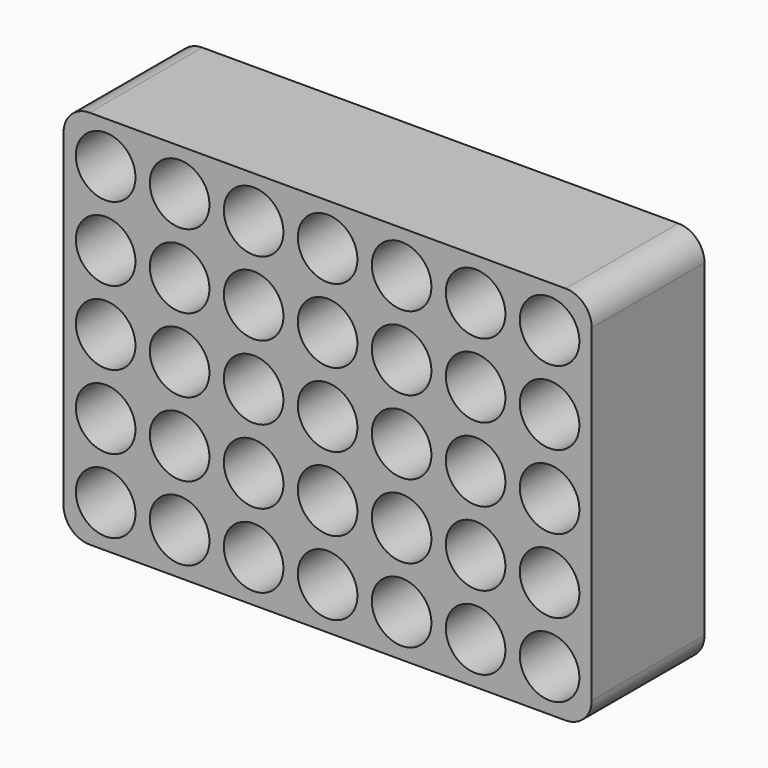
from build123d import *

# Parameters (mm, degrees)
F0_R     = 7.25
F1_DEPTH = 31.75
F3_DEPTH = 2.54


with BuildPart() as f1:
    # F0 (on Front) → F1 (new body)
    with BuildSketch(Plane.XZ):
        with BuildLine():
            Line((-57.9, -46.25), (57.9, -46.25))
            ThreePointArc((57.9, -46.25), (62.390128, -44.390128), (64.25, -39.9))
            Line((64.25, -39.9), (64.25, 39.9))
            ThreePointArc((64.25, 39.9), (62.390128, 44.390128), (57.9, 46.25))
            Line((57.9, 46.25), (-57.9, 46.25))
            ThreePointArc((-57.9, 46.25), (-62.390128, 44.390128), (-64.25, 39.9))
            Line((-64.25, 39.9), (-64.25, -39.9))
            ThreePointArc((-64.25, -39.9), (-62.390128, -44.390128), (-57.9, -46.25))
        make_face()
        with Locations((-54, -36)):
            Circle(F0_R, mode=Mode.SUBTRACT)
        with Locations((-36, -36)):
            Circle(F0_R, mode=Mode.SUBTRACT)
        with Locations((-18, -36)):
            Circle(F0_R, mode=Mode.SUBTRACT)
        with Locations((-54, -18)):
            Circle(F0_R, mode=Mode.SUBTRACT)
        with Locations((-36, -18)):
            Circle(F0_R, mode=Mode.SUBTRACT)
        with Locations((-18, -18)):
            Circle(F0_R, mode=Mode.SUBTRACT)
        with Locations((0, -36)):
            Circle(F0_R, mode=Mode.SUBTRACT)
        with Locations((18, -36)):
            Circle(F0_R, mode=Mode.SUBTRACT)
        with Locations((36, -36)):
            Circle(F0_R, mode=Mode.SUBTRACT)
        with Locations((54, -36)):
            Circle(F0_R, mode=Mode.SUBTRACT)
        with Locations((0, -18)):
            Circle(F0_R, mode=Mode.SUBTRACT)
        with Locations((18, -18)):
            Circle(F0_R, mode=Mode.SUBTRACT)
        with Locations((36, -18)):
            Circle(F0_R, mode=Mode.SUBTRACT)
        with Locations((54, -18)):
            Circle(F0_R, mode=Mode.SUBTRACT)
        with Locations((-54, 0)):
            Circle(F0_R, mode=Mode.SUBTRACT)
        with Locations((-36, 0)):
            Circle(F0_R, mode=Mode.SUBTRACT)
        with Locations((-54, 18)):
            Circle(F0_R, mode=Mode.SUBTRACT)
        with Locations((-36, 18)):
            Circle(F0_R, mode=Mode.SUBTRACT)
        with Locations((-18, 0)):
            Circle(F0_R, mode=Mode.SUBTRACT)
        with Locations((-18, 18)):
            Circle(F0_R, mode=Mode.SUBTRACT)
        with Locations((-54, 36)):
            Circle(F0_R, mode=Mode.SUBTRACT)
        with Locations((-36, 36)):
            Circle(F0_R, mode=Mode.SUBTRACT)
        with Locations((-18, 36)):
            Circle(F0_R, mode=Mode.SUBTRACT)
        Circle(F0_R, mode=Mode.SUBTRACT)
        with Locations((18, 0)):
            Circle(F0_R, mode=Mode.SUBTRACT)
        with Locations((0, 18)):
            Circle(F0_R, mode=Mode.SUBTRACT)
        with Locations((18, 18)):
            Circle(F0_R, mode=Mode.SUBTRACT)
        with Locations((36, 0)):
            Circle(F0_R, mode=Mode.SUBTRACT)
        with Locations((54, 0)):
            Circle(F0_R, mode=Mode.SUBTRACT)
        with Locations((36, 18)):
            Circle(F0_R, mode=Mode.SUBTRACT)
        with Locations((54, 18)):
            Circle(F0_R, mode=Mode.SUBTRACT)
        with Locations((0, 36)):
            Circle(F0_R, mode=Mode.SUBTRACT)
        with Locations((18, 36)):
            Circle(F0_R, mode=Mode.SUBTRACT)
        with Locations((36, 36)):
            Circle(F0_R, mode=Mode.SUBTRACT)
        with Locations((54, 36)):
            Circle(F0_R, mode=Mode.SUBTRACT)
    extrude(amount=F1_DEPTH)

    # F2 (on face) → F3 (join)
    with BuildSketch(Plane(origin=(0, 0, 0), x_dir=(-1, 0, 0), z_dir=(0, 1, 0))):
        with BuildLine():
            ThreePointArc((-64.25, -39.9), (-62.390128, -44.390128), (-57.9, -46.25))
            Line((-57.9, -46.25), (57.9, -46.25))
            ThreePointArc((57.9, -46.25), (62.390128, -44.390128), (64.25, -39.9))
            Line((64.25, -39.9), (64.25, 39.9))
            ThreePointArc((64.25, 39.9), (62.390128, 44.390128), (57.9, 46.25))
            Line((57.9, 46.25), (-57.9, 46.25))
            ThreePointArc((-57.9, 46.25), (-62.390128, 44.390128), (-64.25, 39.9))
            Line((-64.25, 39.9), (-64.25, -39.9))
        make_face()
    extrude(amount=F3_DEPTH)


solid = f1.part
